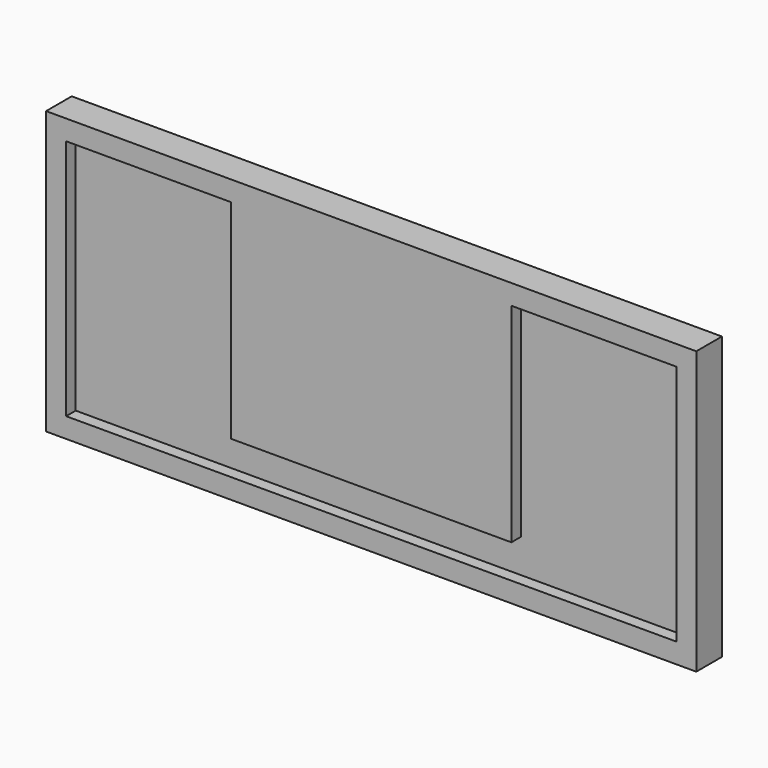
from build123d import *

# Parameters (mm, degrees)
F0_W     = 206.1464
F0_H     = 89.435898
F1_DEPTH = 10.16
F2_T     = -6.35
F3_W     = 88.9
F3_H     = 66.04
F4_DEPTH = 3.81


with BuildPart() as f1:
    # F0 (on Front) → F1 (new body)
    with BuildSketch(Plane.XZ):
        Rectangle(F0_W, F0_H)
    extrude(amount=F1_DEPTH)

    # F2
    f2_openings = [f1.faces().sort_by_distance(p)[0] for p in [
        (0, -10.16, 0),
    ]]
    offset(amount=F2_T, openings=f2_openings)

    # F3 (on face) → F4 (join, through all)
    with BuildSketch(Plane.XZ.offset(6.35)):
        with Locations((0, 5.347949)):
            Rectangle(F3_W, F3_H)
    extrude(amount=F4_DEPTH)


solid = f1.part
